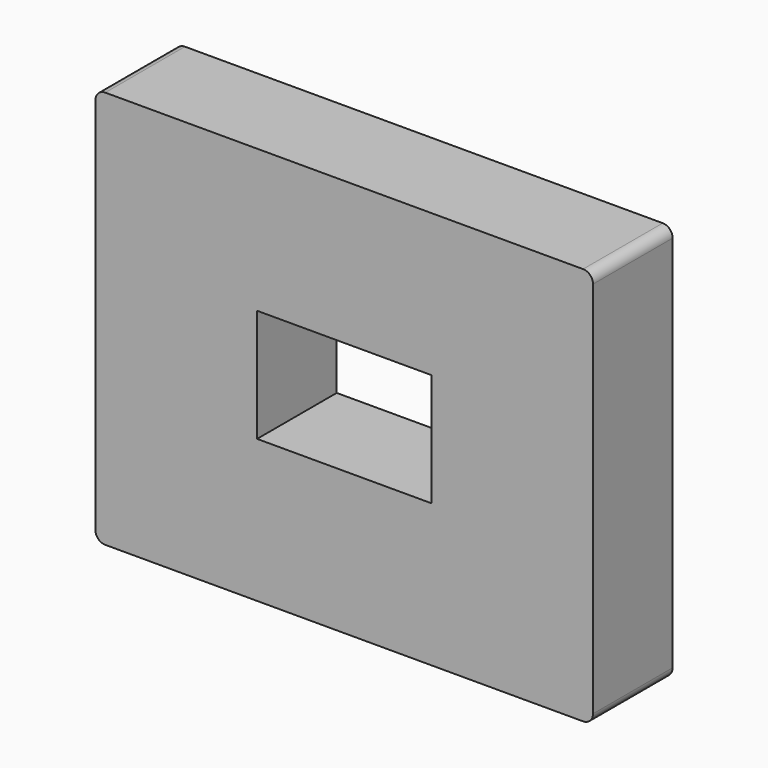
from build123d import *

# Parameters (mm, degrees)
F0_W     = 15
F0_H     = 12
F0_W_2   = 5.25
F0_H_2   = 3.4
F1_DEPTH = 3
F2_R     = 0.3


with BuildPart() as f1:
    # F0 (on Front) → F1 (new body)
    with BuildSketch(Plane.XZ):
        Rectangle(F0_W, F0_H)
        Rectangle(F0_W_2, F0_H_2, mode=Mode.SUBTRACT)
    extrude(amount=F1_DEPTH)

    # F2
    f2_edges = [f1.edges().sort_by_distance(p)[0] for p in [
        (-7.5, -1.5, 6),
        (-7.5, -1.5, -6),
        (7.5, -1.5, 6),
        (7.5, -1.5, -6),
    ]]
    fillet(f2_edges, radius=F2_R)


solid = f1.part
